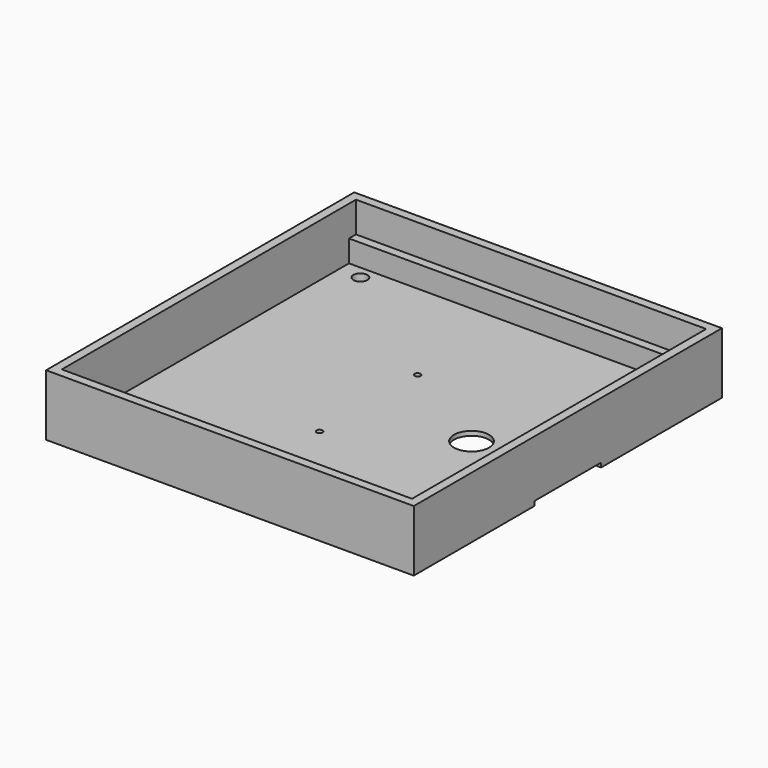
from build123d import *

# Parameters (mm, degrees)
CYLINDER009_R     = 0.8
CYLINDER009_DEPTH = 20
CYLINDER010_R     = 0.8
CYLINDER010_DEPTH = 20
CYLINDER011_R     = 0.8
CYLINDER011_DEPTH = 20
CYLINDER008_R     = 0.8
CYLINDER008_DEPTH = 20
CYLINDER005_R     = 0.34
CYLINDER005_DEPTH = 100
CYLINDER006_R     = 0.34
CYLINDER006_DEPTH = 100
CYLINDER007_R     = 0.34
CYLINDER007_DEPTH = 100
CYLINDER004_R     = 0.34
CYLINDER004_DEPTH = 100
CYLINDER002_R     = 4.75
CYLINDER002_DEPTH = 0.5
CYLINDER003_R     = 4.75
CYLINDER003_DEPTH = 0.5
BOX008_W          = 18
BOX008_H          = 9.5
BOX008_DEPTH      = 0.5
BOX004_W          = 40
BOX004_H          = 1
BOX004_DEPTH      = 2.5
CYLINDER001_R     = 2
CYLINDER001_DEPTH = 20
BOX002_W          = 40
BOX002_H          = 42
BOX002_DEPTH      = 6
BOX001_W          = 42
BOX001_H          = 44
BOX001_DEPTH      = 7
BOX003_W          = 40
BOX003_H          = 1
BOX003_DEPTH      = 2.5


with BuildPart() as zylinder009:
    # Cylinder009 → Cylinder009 (new body)
    with BuildSketch(Plane(origin=(2.5, 2.5, -10), x_dir=(1, 0, 0), z_dir=(0, 0, 1))):
        Circle(CYLINDER009_R)
    extrude(amount=CYLINDER009_DEPTH)


with BuildPart() as zylinder010:
    # Cylinder010 → Cylinder010 (new body)
    with BuildSketch(Plane(origin=(37.5, 39.5, -10), x_dir=(1, 0, 0), z_dir=(0, 0, 1))):
        Circle(CYLINDER010_R)
    extrude(amount=CYLINDER010_DEPTH)


with BuildPart() as zylinder011:
    # Cylinder011 → Cylinder011 (new body)
    with BuildSketch(Plane(origin=(2.5, 39.5, -10), x_dir=(1, 0, 0), z_dir=(0, 0, 1))):
        Circle(CYLINDER011_R)
    extrude(amount=CYLINDER011_DEPTH)


with BuildPart() as compound005:
    # Cylinder008 → Cylinder008 (new body)
    with BuildSketch(Plane(origin=(37.5, 2.5, -10), x_dir=(1, 0, 0), z_dir=(0, 0, 1))):
        Circle(CYLINDER008_R)
    extrude(amount=CYLINDER008_DEPTH)

    # Compound005: union Zylinder009, Zylinder010, Zylinder011
    add(zylinder009.part)
    add(zylinder010.part)
    add(zylinder011.part)


with BuildPart() as zylinder005:
    # Cylinder005 → Cylinder005 (new body)
    with BuildSketch(Plane(origin=(18.24, 28, -50), x_dir=(1, 0, 0), z_dir=(0, 0, 1))):
        Circle(CYLINDER005_R)
    extrude(amount=CYLINDER005_DEPTH)


with BuildPart() as zylinder006:
    # Cylinder006 → Cylinder006 (new body)
    with BuildSketch(Plane(origin=(36, 14.5, -50), x_dir=(1, 0, 0), z_dir=(0, 0, 1))):
        Circle(CYLINDER006_R)
    extrude(amount=CYLINDER006_DEPTH)


with BuildPart() as zylinder007:
    # Cylinder007 → Cylinder007 (new body)
    with BuildSketch(Plane(origin=(36, 27.5, -50), x_dir=(1, 0, 0), z_dir=(0, 0, 1))):
        Circle(CYLINDER007_R)
    extrude(amount=CYLINDER007_DEPTH)


with BuildPart() as m1tapholes:
    # Cylinder004 → Cylinder004 (new body)
    with BuildSketch(Plane(origin=(18.24, 14, -50), x_dir=(1, 0, 0), z_dir=(0, 0, 1))):
        Circle(CYLINDER004_R)
    extrude(amount=CYLINDER004_DEPTH)

    # Compound002: union Zylinder005, Zylinder006, Zylinder007
    add(zylinder005.part)
    add(zylinder006.part)
    add(zylinder007.part)


with BuildPart() as zylinder002:
    # Cylinder002 → Cylinder002 (new body)
    with BuildSketch(Plane(origin=(27.75, 25.75, -4.4), x_dir=(1, 0, 0), z_dir=(0, 0, 1))):
        Circle(CYLINDER002_R)
    extrude(amount=CYLINDER002_DEPTH)


with BuildPart() as zylinder003:
    # Cylinder003 → Cylinder003 (new body)
    with BuildSketch(Plane(origin=(27.75, 16.25, -4.4), x_dir=(1, 0, 0), z_dir=(0, 0, 1))):
        Circle(CYLINDER003_R)
    extrude(amount=CYLINDER003_DEPTH)


with BuildPart() as fusion002:
    # Box008 → Box008 (new body)
    with BuildSketch(Plane(origin=(23, 16.25, -4.4), x_dir=(1, 0, 0), z_dir=(0, 0, 1))):
        with Locations((9, 4.75)):
            Rectangle(BOX008_W, BOX008_H)
    extrude(amount=BOX008_DEPTH)

    # Fusion002: union Zylinder002, Zylinder003
    add(zylinder002.part)
    add(zylinder003.part)


with BuildPart() as obj1:
    # Box004 → Box004 (new body)
    with BuildSketch(Plane(origin=(0, 41, -3.4), x_dir=(1, 0, 0), z_dir=(0, 0, 1))):
        with Locations((20, 0.5)):
            Rectangle(BOX004_W, BOX004_H)
    extrude(amount=BOX004_DEPTH)


with BuildPart() as zylinder001:
    # Cylinder001 → Cylinder001 (new body)
    with BuildSketch(Plane(origin=(30, 21, -10), x_dir=(1, 0, 0), z_dir=(0, 0, 1))):
        Circle(CYLINDER001_R)
    extrude(amount=CYLINDER001_DEPTH)


with BuildPart() as obj2:
    # Box002 → Box002 (new body)
    with BuildSketch(Plane.XY.offset(-3.4)):
        with Locations((20, 21)):
            Rectangle(BOX002_W, BOX002_H)
    extrude(amount=BOX002_DEPTH)


with BuildPart() as cut002:
    # Box001 → Box001 (new body)
    with BuildSketch(Plane(origin=(-1, -1, -4.4), x_dir=(1, 0, 0), z_dir=(0, 0, 1))):
        with Locations((21, 22)):
            Rectangle(BOX001_W, BOX001_H)
    extrude(amount=BOX001_DEPTH)

    # Cut001: cut obj2
    add(obj2.part, mode=Mode.SUBTRACT)

    # Cut002: cut Zylinder001
    add(zylinder001.part, mode=Mode.SUBTRACT)


with BuildPart() as upperpart:
    # Box003 → Box003 (new body)
    with BuildSketch(Plane.XY.offset(-3.4)):
        with Locations((20, 0.5)):
            Rectangle(BOX003_W, BOX003_H)
    extrude(amount=BOX003_DEPTH)

    # Fusion: union obj1, Cut002
    add(obj1.part)
    add(cut002.part)

    # Cut004: cut Fusion002
    add(fusion002.part, mode=Mode.SUBTRACT)

    # Cut005: cut M1TapHoles
    add(m1tapholes.part, mode=Mode.SUBTRACT)

    # Cut007: cut Compound005
    add(compound005.part, mode=Mode.SUBTRACT)


solid = upperpart.part
